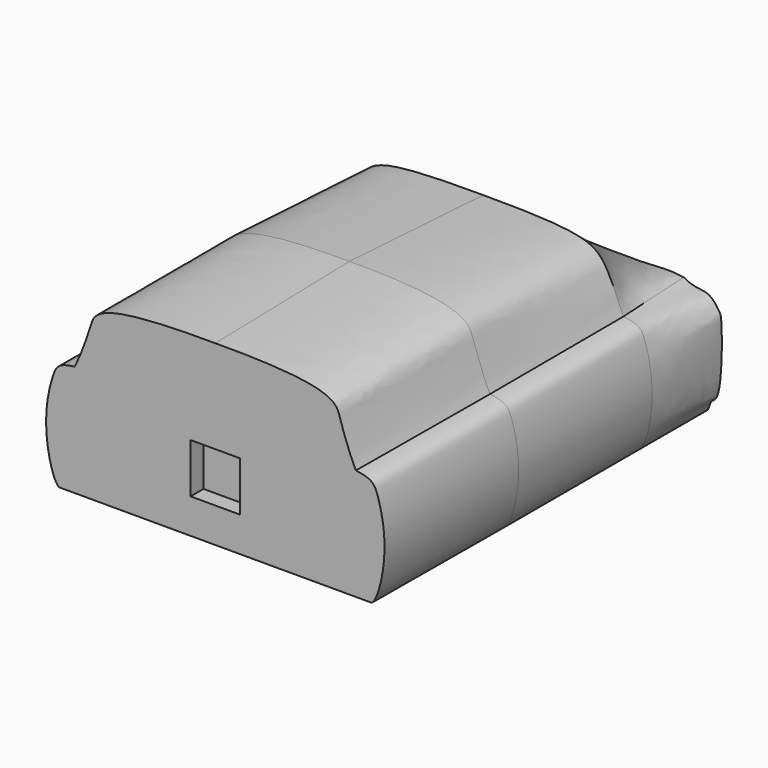
from build123d import *

# Parameters (mm, degrees)
F8_W      = 150.3
F8_H      = 150.3
F15_DEPTH = 49
F16_W     = 150.3
F16_H     = 150.3
F17_DEPTH = 49
F18_SCALE = 0.06


with BuildPart() as f9:
    # F7 (on offset) → F9 section 0
    with BuildSketch(Plane.XZ.offset(-762)):
        with BuildLine():
            Line((0.1584887505, -183.1980922269), (0.1584887505, 148.9692763008))
            add(Edge.make_bspline(
                [(-403.2837748528, 148.9692763008), (-361.9413971901, 155.9843108572), (-300.8599900284, 146.0628981015), (-125.8436559494, 151.2423181929), (-46.7571673235, 148.9692763008), (0.1584887505, 148.9692763008)],
                knots=[0, 0, 0, 0, 0.2984259287, 0.6695630928, 1, 1, 1, 1], degree=3))
            add(Edge.make_bspline(
                [(-473.9971756935, -183.1980922269), (-480.5770214293, -177.9163295695), (-481.5710687682, -151.5276075961), (-520.6987799625, -148.0816034945), (-521.1208757291, 78.7741568252), (-510.6917945334, 93.6804495958), (-477.9211180885, 141.4877688131), (-435.9205000594, 129.5729096626), (-403.2837748528, 148.9692763008)],
                knots=[0.0998476522, 0.0998476522, 0.0998476522, 0.0998476522, 0.2041896676, 0.3100333363, 0.5970663664, 0.6946290463, 0.8249758157, 1, 1, 1, 1], degree=3))
            Line((-473.9971756935, -183.1980922269), (-448.5557532602, -183.1980922269))
            Line((-448.5557532602, -183.1980922269), (0.1584887505, -183.1980922269))
        make_face()
    # F3 (on offset) → F9 section 1
    with BuildSketch(Plane.XZ.offset(-508)):
        with BuildLine():
            Line((-448.7142420107, -183.1095217108), (-0.8547306061, -183.1095217108))
            Line((-0.8547306061, -183.1095217108), (-0.8547306061, 339.8833276392))
            add(Edge.make_bspline(
                [(-425.9420335293, 154.2110444666), (-412.46534384, 180.6685756473), (-406.3800631287, 202.4829286635), (-381.928427354, 254.8373079925), (-342.7353016167, 318.766364781), (-268.3299880886, 341.1130193989), (-0.8547306061, 339.8833276392)],
                knots=[0, 0, 0, 0, 0.1858707903, 0.3633687117, 0.53553365, 1, 1, 1, 1], degree=3))
            add(Edge.make_bspline(
                [(-475.8651256561, -183.1095217108), (-495.6553124123, -166.8569903526), (-526.8397519259, -26.030289038), (-492.5296911823, 120.5917099646), (-474.0125038157, 148.3755705213), (-425.9420335293, 154.2110444666)],
                knots=[0.1352188376, 0.1352188376, 0.1352188376, 0.1352188376, 0.4578837471, 0.7745389991, 1, 1, 1, 1], degree=3))
            Line((-475.8651256561, -183.1095217108), (-448.7142420107, -183.1095217108))
        make_face()
    loft()

    # F7 (on offset) → F10 section 0
    with BuildSketch(Plane.XZ.offset(-762)):
        with BuildLine():
            add(Edge.make_bspline(
                [(403.6007523537, 148.9692763008), (362.258374691, 155.9843108572), (301.1769675294, 146.0628981015), (126.1606334503, 151.2423181929), (47.0741448244, 148.9692763008), (0.1584887505, 148.9692763008)],
                knots=[0, 0, 0, 0, 0.2984259287, 0.6695630928, 1, 1, 1, 1], degree=3))
            Line((0.1584887505, 148.9692763008), (0.1584887505, -183.1980922269))
            Line((0.1584887505, -183.1980922269), (448.8727307612, -183.1980922269))
            Line((448.8727307612, -183.1980922269), (474.3141531944, -183.1980922269))
            add(Edge.make_bspline(
                [(474.3141531944, -183.1980922269), (480.8939989302, -177.9163295695), (481.8880462691, -151.5276075961), (521.0157574634, -148.0816034945), (521.43785323, 78.7741568252), (511.0087720343, 93.6804495958), (478.2380955895, 141.4877688131), (436.2374775603, 129.5729096626), (403.6007523537, 148.9692763008)],
                knots=[0.0998476522, 0.0998476522, 0.0998476522, 0.0998476522, 0.2041896676, 0.3100333363, 0.5970663664, 0.6946290463, 0.8249758157, 1, 1, 1, 1], degree=3))
        make_face()
    # F3 (on offset) → F10 section 1
    with BuildSketch(Plane.XZ.offset(-508)):
        with BuildLine():
            Line((-0.8547306061, 339.8833276392), (-0.8547306061, -183.1095217108))
            Line((-0.8547306061, -183.1095217108), (447.0047807985, -183.1095217108))
            Line((447.0047807985, -183.1095217108), (474.155664444, -183.1095217108))
            add(Edge.make_bspline(
                [(474.155664444, -183.1095217108), (493.9458512002, -166.8569903526), (525.1302907138, -26.030289038), (490.8202299702, 120.5917099646), (472.3030426035, 148.3755705213), (424.2325723171, 154.2110444666)],
                knots=[0.1352188376, 0.1352188376, 0.1352188376, 0.1352188376, 0.4578837471, 0.7745389991, 1, 1, 1, 1], degree=3))
            add(Edge.make_bspline(
                [(424.2325723171, 154.2110444666), (410.7558826278, 180.6685756473), (404.6706019165, 202.4829286635), (380.2189661418, 254.8373079925), (341.0258404045, 318.766364781), (266.6205268764, 341.1130193989), (-0.8547306061, 339.8833276392)],
                knots=[0, 0, 0, 0, 0.1858707903, 0.3633687117, 0.53553365, 1, 1, 1, 1], degree=3))
        make_face()
    loft()

    # F3 (on offset) → F11 section 0
    with BuildSketch(Plane.XZ.offset(-508)):
        with BuildLine():
            Line((-448.7142420107, -183.1095217108), (-0.8547306061, -183.1095217108))
            Line((-0.8547306061, -183.1095217108), (-0.8547306061, 339.8833276392))
            add(Edge.make_bspline(
                [(-425.9420335293, 154.2110444666), (-412.46534384, 180.6685756473), (-406.3800631287, 202.4829286635), (-381.928427354, 254.8373079925), (-342.7353016167, 318.766364781), (-268.3299880886, 341.1130193989), (-0.8547306061, 339.8833276392)],
                knots=[0, 0, 0, 0, 0.1858707903, 0.3633687117, 0.53553365, 1, 1, 1, 1], degree=3))
            add(Edge.make_bspline(
                [(-475.8651256561, -183.1095217108), (-495.6553124123, -166.8569903526), (-526.8397519259, -26.030289038), (-492.5296911823, 120.5917099646), (-474.0125038157, 148.3755705213), (-425.9420335293, 154.2110444666)],
                knots=[0.1352188376, 0.1352188376, 0.1352188376, 0.1352188376, 0.4578837471, 0.7745389991, 1, 1, 1, 1], degree=3))
            Line((-475.8651256561, -183.1095217108), (-448.7142420107, -183.1095217108))
        make_face()
    # F0 (on Front) → F11 section 1
    with BuildSketch(Plane.XZ):
        with BuildLine():
            Line((-448.7142418908, -183.1095215051), (1.199e-07, -183.1095215051))
            Line((1.199e-07, -183.1095215051), (1.199e-07, 369.7673383983))
            add(Edge.make_bspline(
                [(-425.9420334094, 154.2110446723), (-412.7864856493, 180.0381077778), (-406.2769170657, 200.4261421029), (-376.8966252496, 276.0657125006), (-361.6660609239, 334.9040835407), (-265.0778939608, 370.9860085104), (1.199e-07, 369.7673383983)],
                knots=[0, 0, 0, 0, 0.181441594, 0.3874182486, 0.5396966318, 1, 1, 1, 1], degree=3))
            add(Edge.make_bspline(
                [(-474.1556643241, -183.1095215051), (-493.3795421324, -167.1268559789), (-527.9322253212, -26.0726288897), (-492.2015831078, 120.5996786697), (-474.200308203, 148.3527723582), (-425.9420334094, 154.2110446723)],
                knots=[0.1314042252, 0.1314042252, 0.1314042252, 0.1314042252, 0.4557657758, 0.7736581549, 1, 1, 1, 1], degree=3))
            Line((-474.1556643241, -183.1095215051), (-448.7142418908, -183.1095215051))
        make_face()
    loft()

    # F3 (on offset) → F12 section 0
    with BuildSketch(Plane.XZ.offset(-508)):
        with BuildLine():
            Line((-0.8547306061, 339.8833276392), (-0.8547306061, -183.1095217108))
            Line((-0.8547306061, -183.1095217108), (447.0047807985, -183.1095217108))
            Line((447.0047807985, -183.1095217108), (474.155664444, -183.1095217108))
            add(Edge.make_bspline(
                [(474.155664444, -183.1095217108), (493.9458512002, -166.8569903526), (525.1302907138, -26.030289038), (490.8202299702, 120.5917099646), (472.3030426035, 148.3755705213), (424.2325723171, 154.2110444666)],
                knots=[0.1352188376, 0.1352188376, 0.1352188376, 0.1352188376, 0.4578837471, 0.7745389991, 1, 1, 1, 1], degree=3))
            add(Edge.make_bspline(
                [(424.2325723171, 154.2110444666), (410.7558826278, 180.6685756473), (404.6706019165, 202.4829286635), (380.2189661418, 254.8373079925), (341.0258404045, 318.766364781), (266.6205268764, 341.1130193989), (-0.8547306061, 339.8833276392)],
                knots=[0, 0, 0, 0, 0.1858707903, 0.3633687117, 0.53553365, 1, 1, 1, 1], degree=3))
        make_face()
    # F0 (on Front) → F12 section 1
    with BuildSketch(Plane.XZ):
        with BuildLine():
            Line((1.199e-07, 369.7673383983), (1.199e-07, -183.1095215051))
            Line((1.199e-07, -183.1095215051), (448.7142421306, -183.1095215051))
            Line((448.7142421306, -183.1095215051), (474.1556645639, -183.1095215051))
            add(Edge.make_bspline(
                [(474.1556645639, -183.1095215051), (493.3795423723, -167.1268559789), (527.932225561, -26.0726288897), (492.2015833477, 120.5996786697), (474.2003084428, 148.3527723582), (425.9420336492, 154.2110446723)],
                knots=[0.1314042252, 0.1314042252, 0.1314042252, 0.1314042252, 0.4557657758, 0.7736581549, 1, 1, 1, 1], degree=3))
            add(Edge.make_bspline(
                [(425.9420336492, 154.2110446723), (412.7864858892, 180.0381077778), (406.2769173055, 200.4261421029), (376.8966254894, 276.0657125006), (361.6660611637, 334.9040835407), (265.0778942007, 370.9860085104), (1.199e-07, 369.7673383983)],
                knots=[0, 0, 0, 0, 0.181441594, 0.3874182486, 0.5396966318, 1, 1, 1, 1], degree=3))
        make_face()
    loft()

    # F0 (on Front) → F13 section 0
    with BuildSketch(Plane.XZ):
        with BuildLine():
            Line((-448.7142418908, -183.1095215051), (1.199e-07, -183.1095215051))
            Line((1.199e-07, -183.1095215051), (1.199e-07, 369.7673383983))
            add(Edge.make_bspline(
                [(-425.9420334094, 154.2110446723), (-412.7864856493, 180.0381077778), (-406.2769170657, 200.4261421029), (-376.8966252496, 276.0657125006), (-361.6660609239, 334.9040835407), (-265.0778939608, 370.9860085104), (1.199e-07, 369.7673383983)],
                knots=[0, 0, 0, 0, 0.181441594, 0.3874182486, 0.5396966318, 1, 1, 1, 1], degree=3))
            add(Edge.make_bspline(
                [(-474.1556643241, -183.1095215051), (-493.3795421324, -167.1268559789), (-527.9322253212, -26.0726288897), (-492.2015831078, 120.5996786697), (-474.200308203, 148.3527723582), (-425.9420334094, 154.2110446723)],
                knots=[0.1314042252, 0.1314042252, 0.1314042252, 0.1314042252, 0.4557657758, 0.7736581549, 1, 1, 1, 1], degree=3))
            Line((-474.1556643241, -183.1095215051), (-448.7142418908, -183.1095215051))
        make_face()
    # F4 (on offset) → F13 section 1
    with BuildSketch(Plane.XZ.offset(508)):
        with BuildLine():
            Line((-448.7142417362, -180.4738868312), (2.745e-07, -180.4738868312))
            Line((2.745e-07, -180.4738868312), (2.745e-07, 357.9041432305))
            add(Edge.make_bspline(
                [(-425.9420332548, 156.8466793461), (-412.6207322676, 182.9991503433), (-406.452987123, 203.3396138866), (-378.6300657187, 271.6390355657), (-368.7670559889, 330.8313455477), (-269.9509419989, 359.1452167128), (2.745e-07, 357.9041432305)],
                knots=[0, 0, 0, 0, 0.183727666, 0.3822248995, 0.5312346644, 1, 1, 1, 1], degree=3))
            add(Edge.make_bspline(
                [(-474.1556641695, -180.4738868312), (-493.3795419779, -164.491221305), (-527.9322251666, -23.4369942158), (-492.2015829533, 123.2353133436), (-474.2003080485, 150.9884070321), (-425.9420332548, 156.8466793461)],
                knots=[0.1314042252, 0.1314042252, 0.1314042252, 0.1314042252, 0.4557657758, 0.7736581549, 1, 1, 1, 1], degree=3))
            Line((-474.1556641695, -180.4738868312), (-448.7142417362, -180.4738868312))
        make_face()
    loft()

    # F0 (on Front) → F14 section 0
    with BuildSketch(Plane.XZ):
        with BuildLine():
            Line((1.199e-07, 369.7673383983), (1.199e-07, -183.1095215051))
            Line((1.199e-07, -183.1095215051), (448.7142421306, -183.1095215051))
            Line((448.7142421306, -183.1095215051), (474.1556645639, -183.1095215051))
            add(Edge.make_bspline(
                [(474.1556645639, -183.1095215051), (493.3795423723, -167.1268559789), (527.932225561, -26.0726288897), (492.2015833477, 120.5996786697), (474.2003084428, 148.3527723582), (425.9420336492, 154.2110446723)],
                knots=[0.1314042252, 0.1314042252, 0.1314042252, 0.1314042252, 0.4557657758, 0.7736581549, 1, 1, 1, 1], degree=3))
            add(Edge.make_bspline(
                [(425.9420336492, 154.2110446723), (412.7864858892, 180.0381077778), (406.2769173055, 200.4261421029), (376.8966254894, 276.0657125006), (361.6660611637, 334.9040835407), (265.0778942007, 370.9860085104), (1.199e-07, 369.7673383983)],
                knots=[0, 0, 0, 0, 0.181441594, 0.3874182486, 0.5396966318, 1, 1, 1, 1], degree=3))
        make_face()
    # F4 (on offset) → F14 section 1
    with BuildSketch(Plane.XZ.offset(508)):
        with BuildLine():
            Line((2.745e-07, 357.9041432305), (2.745e-07, -180.4738868312))
            Line((2.745e-07, -180.4738868312), (448.7142422852, -180.4738868312))
            Line((448.7142422852, -180.4738868312), (474.1556647184, -180.4738868312))
            add(Edge.make_bspline(
                [(474.1556647184, -180.4738868312), (493.3795425268, -164.491221305), (527.9322257156, -23.4369942158), (492.2015835022, 123.2353133436), (474.2003085974, 150.9884070321), (425.9420338037, 156.8466793461)],
                knots=[0.1314042252, 0.1314042252, 0.1314042252, 0.1314042252, 0.4557657758, 0.7736581549, 1, 1, 1, 1], degree=3))
            add(Edge.make_bspline(
                [(425.9420338037, 156.8466793461), (412.6207328165, 182.9991503433), (406.4529876719, 203.3396138866), (378.6300662676, 271.6390355657), (368.7670565379, 330.8313455477), (269.9509425478, 359.1452167128), (2.745e-07, 357.9041432305)],
                knots=[0, 0, 0, 0, 0.183727666, 0.3822248995, 0.5312346644, 1, 1, 1, 1], degree=3))
        make_face()
    loft()

    # F8 (on offset) → F15 (cut)
    with BuildSketch(Plane.XZ.offset(-762)):
        with Locations((0.15, 0.15)):
            Rectangle(F8_W, F8_H)
    extrude(amount=F15_DEPTH, mode=Mode.SUBTRACT)

    # F16 (on offset) → F17 (cut)
    with BuildSketch(Plane.XZ.offset(508)):
        with Locations((0.1, 0.1)):
            Rectangle(F16_W, F16_H)
    extrude(amount=-F17_DEPTH, mode=Mode.SUBTRACT)


with BuildPart() as f9_1:
    # F18: moved
    add(f9.part.scale(F18_SCALE))


solid = f9_1.part
